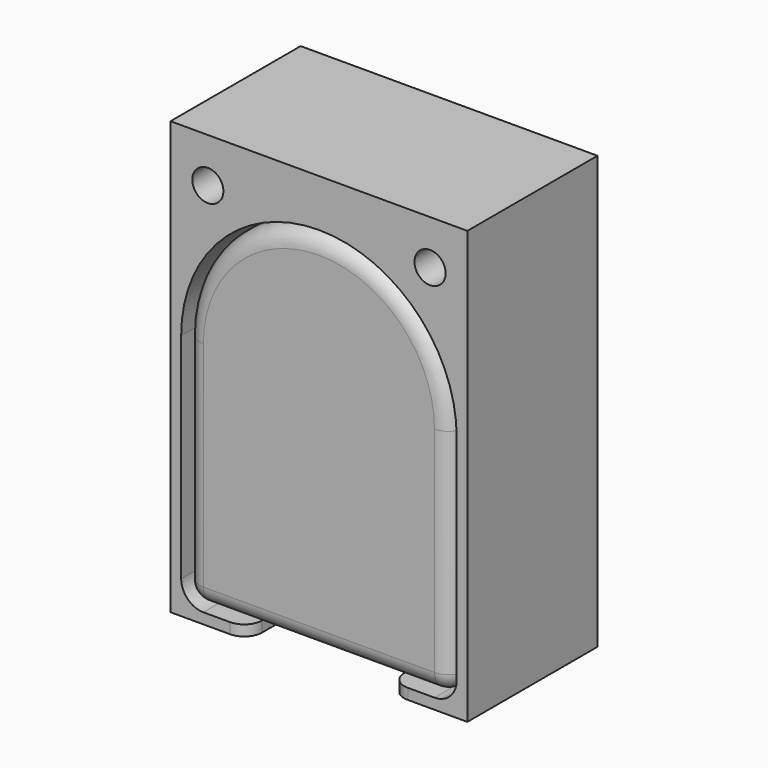
from build123d import *

# Parameters (mm, degrees)
F1_DEPTH = 18.3
F2_R     = 2
F3_R     = 5.5
F4_DEPTH = 7
F5_W     = 33.4
F5_H     = 48.636966
F5_R     = 1.75
F6_DEPTH = 18.3
F7_W     = 16
F7_H     = 1.2
F8_DEPTH = 16
F9_R     = 2


with BuildPart() as f1:
    # F0 (on Front) → F1 (new body)
    with BuildSketch(Plane.XZ):
        with BuildLine():
            Line((0, 26.1), (0, 0))
            Line((0, 0), (30, 0))
            Line((30, 0), (30, 26.1))
            ThreePointArc((30, 26.1), (15, 41.1), (0, 26.1))
        make_face()
    extrude(amount=F1_DEPTH)

    # F2
    f2_edges = [f1.edges().sort_by_distance(p)[0] for p in [
        (30, -9.15, 0),
        (0, -9.15, 0),
        (0, -18.3, 13.05),
        (15, -18.3, 0),
        (30, -18.3, 13.05),
        (15, -18.3, 41.1),
    ]]
    fillet(f2_edges, radius=F2_R)

    # F3 (on face) → F4 (cut)
    with BuildSketch(Plane(origin=(0, 0, 0), x_dir=(-1, 0, 0), z_dir=(0, 1, 0))):
        with Locations((-15, 26.1)):
            Circle(F3_R)
    extrude(amount=-F4_DEPTH, mode=Mode.SUBTRACT)


with BuildPart() as f6:
    # F5 (on face) → F6 (new body, through all)
    with BuildSketch(Plane(origin=(0, 0, 0), x_dir=(-1, 0, 0), z_dir=(0, 1, 0))):
        with Locations((-15, 22.618483)):
            Rectangle(F5_W, F5_H)
        with BuildLine():
            Line((-30.5, 2), (-30.5, 26.1))
            ThreePointArc((-30.5, 26.1), (-15, 41.6), (0.5, 26.1))
            Line((0.5, 26.1), (0.5, 2))
            ThreePointArc((0.5, 2), (-0.232233, 0.232233), (-2, -0.5))
            Line((-2, -0.5), (-28, -0.5))
            ThreePointArc((-28, -0.5), (-29.767767, 0.232233), (-30.5, 2))
        make_face(mode=Mode.SUBTRACT)
        with Locations((-27.5, 41.936966)):
            Circle(F5_R, mode=Mode.SUBTRACT)
        with Locations((-2.5, 41.936966)):
            Circle(F5_R, mode=Mode.SUBTRACT)
    extrude(amount=-F6_DEPTH)

    # F7 (on face) → F8 (cut)
    with BuildSketch(Plane.XZ.offset(18.3)):
        with Locations((15, -1.1)):
            Rectangle(F7_W, F7_H)
    extrude(amount=-F8_DEPTH, mode=Mode.SUBTRACT)

    # F9
    f9_edges = [f6.edges().sort_by_distance(p)[0] for p in [
        (7, -18.3, -1.1),
        (23, -18.3, -1.1),
        (7, -2.3, -1.1),
        (23, -2.3, -1.1),
    ]]
    fillet(f9_edges, radius=F9_R)


solid = Compound([f1.part, f6.part])
